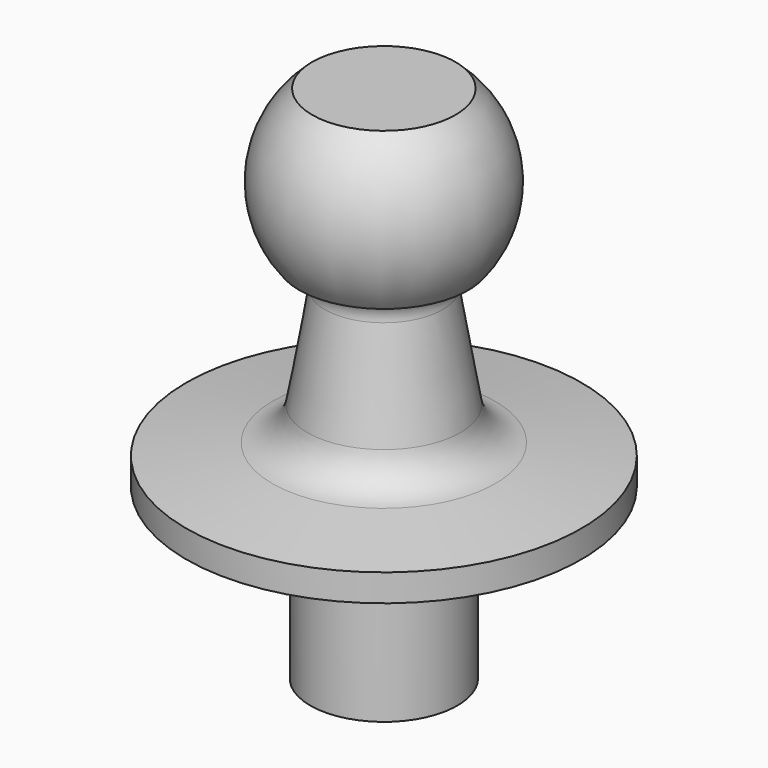
from build123d import *


with BuildPart() as f1:
    # F0 (on Front) → F1 (revolve)
    with BuildSketch(Plane.XZ):
        with BuildLine():
            Line((-2.7, -6.2), (0, -6.2))
            Line((0, -6.2), (0, 12.86))
            Line((0, 12.86), (-2.630608, 12.86))
            ThreePointArc((-2.630608, 12.86), (-3.975502, 10.199833), (-3.101612, 7.35))
            Line((-3.101612, 7.35), (-2.950293, 7.35))
            ThreePointArc((-2.950293, 7.35), (-2.338286, 7.065216), (-2.162004, 6.413618))
            Line((-2.162004, 6.413618), (-2.812344, 2.65465))
            ThreePointArc((-2.812344, 2.65465), (-3.250065, 1.829751), (-4.090995, 1.423678))
            Line((-4.090995, 1.423678), (-7.25, 1))
            Line((-7.25, 1), (-7.25, 0))
            Line((-7.25, 0), (-2.7, 0))
            Line((-2.7, 0), (-2.7, -6.2))
        make_face()
    revolve(axis=Axis((0, 0, 1.878261), (0, 0, 1)))


solid = f1.part
